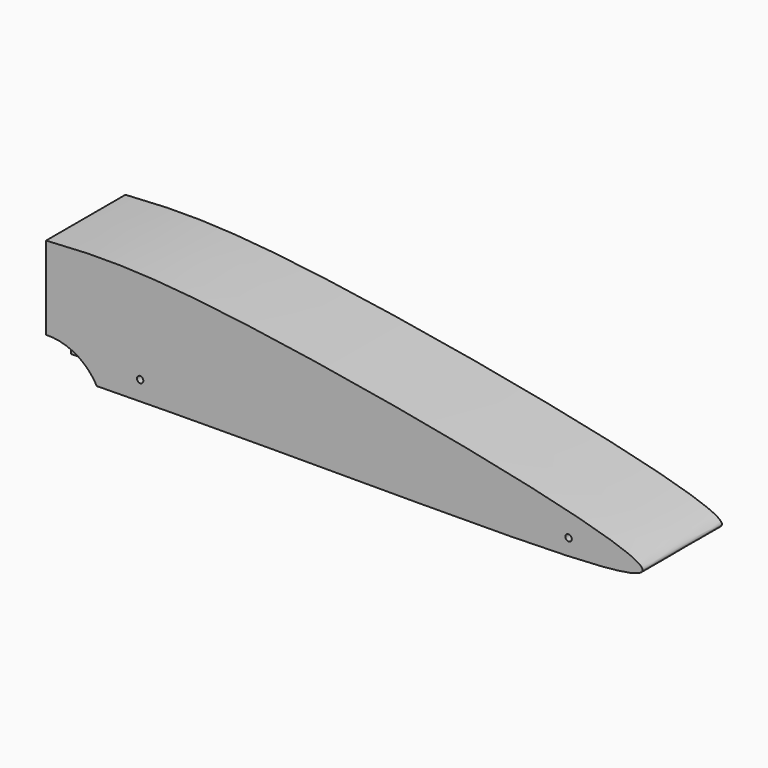
from build123d import *

# Parameters (mm, degrees)
F1_DEPTH  = 42.164
F3_DEPTH  = 50.8
F5_R      = 8.9567079673
F6_DEPTH  = 76.2
F8_DEPTH  = 16.002
F10_DEPTH = 16.256
F11_R     = 1.651
F12_DEPTH = 59.944
F13_DEPTH = 89.916


with BuildPart() as f1:
    # F0 (on Front) → F1 (new body)
    with BuildSketch(Plane.XZ):
        Polygon((0, 69.088), (0, 0), (304.8, 0), (304.8, 19.812), align=None)
    extrude(amount=F1_DEPTH)


with BuildPart() as f3:
    # F2 (on face) → F3 (new body)
    with BuildSketch(Plane.XZ.offset(42.164)):
        with BuildLine():
            add(Edge.make_bspline(
                [(0, 57.7113069594), (20.3099937027, 59.0195676413), (73.6764002437, 62.8389829446), (452.3676579415, -9.0422647295), (160.7904136181, 3.7707102019), (0, 0)],
                knots=[0, 0, 0, 0, 0.2216706751, 0.58094023, 1, 1, 1, 1], degree=3))
            Line((0, 57.7113069594), (0, 0))
        make_face()
    extrude(amount=F3_DEPTH)

    # F5 (on face) → F6 (cut)
    with BuildSketch(Plane(origin=(0, 0, 0), x_dir=(0, -1, 0), z_dir=(-1, 0, 0))):
        with Locations((67.564, 33.5073322058)):
            Circle(F5_R)
    extrude(amount=-F6_DEPTH, mode=Mode.SUBTRACT)

    # F7 (on face) → F8 (cut)
    with BuildSketch(Plane.XZ.offset(92.964)):
        with BuildLine():
            ThreePointArc((0, 15.1919266209), (14.9223036814, 11.2659249778), (25.9978323859, 0.5224944281))
            ThreePointArc((25.9978323859, 0.5224944281), (15.0693060862, 11.5264493001), (0, 15.1919266209))
        make_face()
        with BuildLine():
            Line((0, 0), (25.9978323859, 0.5224944281))
            ThreePointArc((25.9978323859, 0.5224944281), (14.9223036814, 11.2659249778), (0, 15.1919266209))
            Line((0, 15.1919266209), (0, 0))
        make_face()
    extrude(amount=-F8_DEPTH, mode=Mode.SUBTRACT)

    # F9 (on face) → F10 (cut)
    with BuildSketch(Plane(origin=(0, -42.164, 0), x_dir=(-1, 0, 0), z_dir=(0, 1, 0))):
        with BuildLine():
            Line((0, 0), (0, 15.890294686))
            ThreePointArc((0, 15.890294686), (-16.1975784719, 11.6991220878), (-28.6879014286, 0.5672171054))
            Line((-28.6879014286, 0.5672171054), (0, 0))
        make_face()
    extrude(amount=-F10_DEPTH, mode=Mode.SUBTRACT)

    # F11 (on face) → F12 (cut)
    with BuildSketch(Plane.XZ.offset(92.964)):
        with Locations((48.173867166, 10.6728887185)):
            Circle(F11_R)
        with Locations((267.6445245743, 10.6728887185)):
            Circle(F11_R)
    extrude(amount=-F12_DEPTH, mode=Mode.SUBTRACT)

    # F11 (on face) → F13 (cut)
    with BuildSketch(Plane.XZ.offset(92.964)):
        with Locations((48.173867166, 10.6728887185)):
            Circle(F11_R)
        with Locations((267.6445245743, 10.6728887185)):
            Circle(F11_R)
    extrude(amount=-F13_DEPTH, mode=Mode.SUBTRACT)


solid = f3.part
